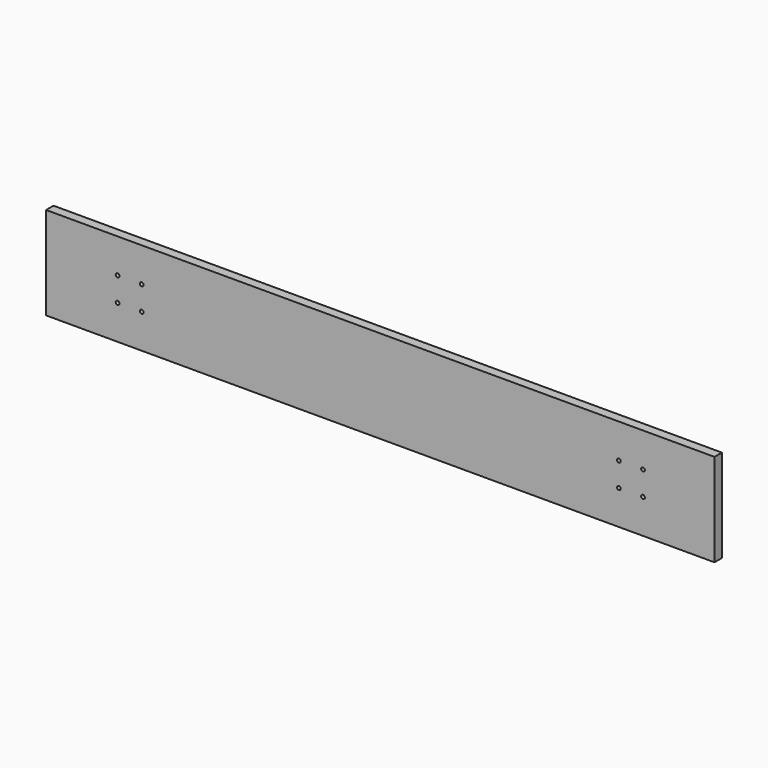
from build123d import *

# Parameters (mm, degrees)
F0_W     = 720
F0_H     = 100
F0_R     = 2
F1_DEPTH = 10


with BuildPart() as f1:
    # F0 (on Front) → F1 (new body)
    with BuildSketch(Plane.XZ):
        Rectangle(F0_W, F0_H)
        with Locations((-283, -13)):
            Circle(F0_R, mode=Mode.SUBTRACT)
        with Locations((-257, -13)):
            Circle(F0_R, mode=Mode.SUBTRACT)
        with Locations((257, -13)):
            Circle(F0_R, mode=Mode.SUBTRACT)
        with Locations((283, -13)):
            Circle(F0_R, mode=Mode.SUBTRACT)
        with Locations((-283, 13)):
            Circle(F0_R, mode=Mode.SUBTRACT)
        with Locations((-257, 13)):
            Circle(F0_R, mode=Mode.SUBTRACT)
        with Locations((257, 13)):
            Circle(F0_R, mode=Mode.SUBTRACT)
        with Locations((283, 13)):
            Circle(F0_R, mode=Mode.SUBTRACT)
    extrude(amount=F1_DEPTH)


solid = f1.part
